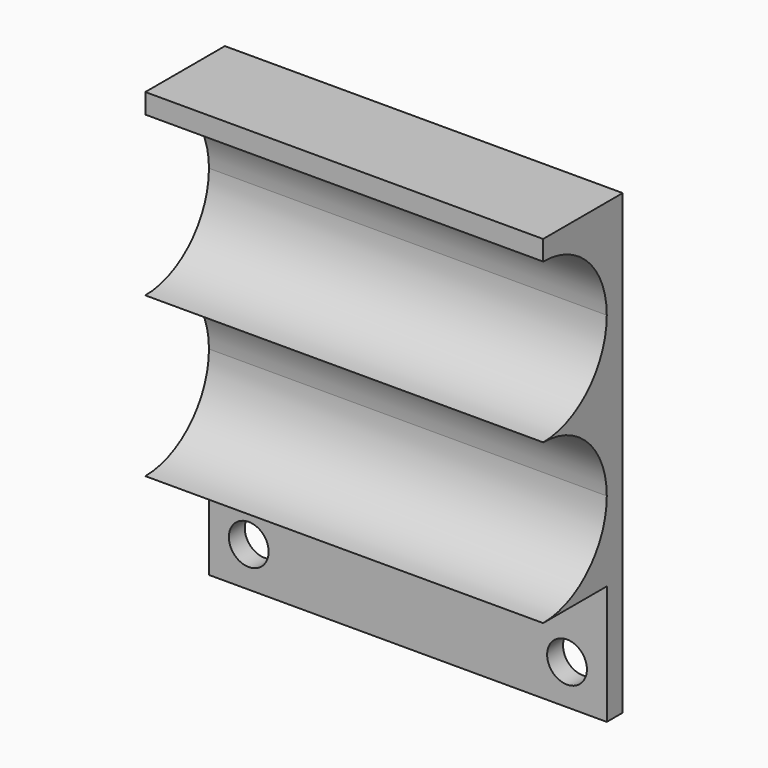
from build123d import *

# Parameters (mm, degrees)
F0_W     = 100
F0_H     = 80
F1_DEPTH = 5
F3_DEPTH = 100
F4_W     = 100
F4_H     = 5
F5_DEPTH = 30
F6_R     = 5
F7_DEPTH = 5
F8_W     = 100
F8_H     = 25
F9_DEPTH = 5


with BuildPart() as f1:
    # F0 (on Front) → F1 (new body)
    with BuildSketch(Plane.XZ):
        with Locations((26.364678, -15.465713)):
            Rectangle(F0_W, F0_H)
    extrude(amount=F1_DEPTH)

    # F2 (on face) → F3 (join)
    with BuildSketch(Plane.YZ.offset(76.364678)):
        with BuildLine():
            ThreePointArc((-25, 24.534287), (-10.857864, 18.676422), (-5, 4.534287))
            Line((-5, 4.534287), (-5, 24.534287))
            Line((-5, 24.534287), (-25, 24.534287))
        make_face()
        with BuildLine():
            ThreePointArc((-25, -15.465713), (-10.857864, -21.323578), (-5, -35.465713))
            Line((-5, -35.465713), (-5, 4.534287))
            ThreePointArc((-5, 4.534287), (-10.857864, -9.607849), (-25, -15.465713))
        make_face()
        with BuildLine():
            ThreePointArc((-5, -35.465713), (-10.857864, -49.607849), (-25, -55.465713))
            Line((-25, -55.465713), (-5, -55.465713))
            Line((-5, -55.465713), (-5, -35.465713))
        make_face()
    extrude(amount=-F3_DEPTH)

    # F4 (on face) → F5 (join)
    with BuildSketch(Plane(origin=(0, 0, -55.465713), x_dir=(1, 0, 0), z_dir=(0, 0, -1))):
        with Locations((26.364678, 2.5)):
            Rectangle(F4_W, F4_H)
    extrude(amount=F5_DEPTH)

    # F6 (on face) → F7 (cut)
    with BuildSketch(Plane.XZ.offset(5)):
        with Locations((66.364678, -75.465713)):
            Circle(F6_R)
        with Locations((-13.635322, -75.465713)):
            Circle(F6_R)
    extrude(amount=-F7_DEPTH, mode=Mode.SUBTRACT)

    # F8 (on face) → F9 (join)
    with BuildSketch(Plane.XY.offset(24.534287)):
        with Locations((26.364678, -12.5)):
            Rectangle(F8_W, F8_H)
    extrude(amount=F9_DEPTH)


solid = f1.part
